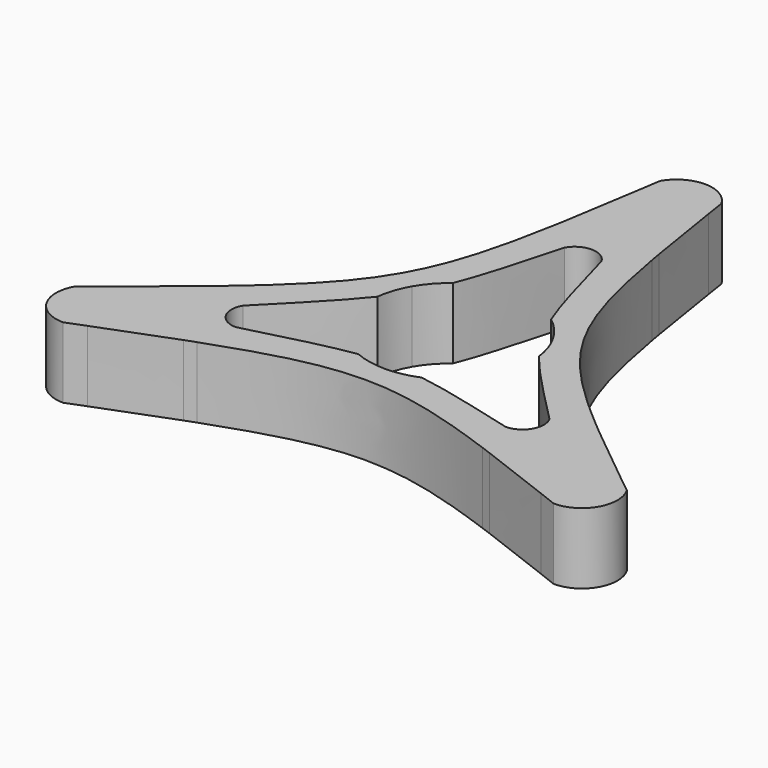
from build123d import *

# Parameters (mm, degrees)
F1_DEPTH = 10
F2_DEPTH = 10
F3_DEPTH = 10
F4_DEPTH = 10


with BuildPart() as f1:
    # F0 (on Top) → F1 (new body)
    with BuildSketch(Plane.XY):
        with BuildLine():
            ThreePointArc((-5.3923352161, 27.4758570552), (0, 28), (5.3923352161, 27.4758570552))
            add(Edge.make_bspline(
                [(4.3301270189, 32.5), (4.7068074274, 30.7100008253), (5.0582819436, 29.0397809794), (5.3923352161, 27.4758570552)],
                knots=[0, 0, 0, 0, 3.4770499246, 3.4770499246, 3.4770499246, 3.4770499246], degree=3))
            ThreePointArc((4.3301270189, 32.5), (0, 35), (-4.3301270189, 32.5))
            add(Edge.make_bspline(
                [(-4.3301270189, 32.5), (-4.7068074274, 30.7100008253), (-5.0582819436, 29.0397809794), (-5.3923352161, 27.4758570552)],
                knots=[0, 0, 0, 0, 3.4770499246, 3.4770499246, 3.4770499246, 3.4770499246], degree=3))
        make_face()
        with BuildLine():
            ThreePointArc((-2.5980762114, 23.5), (0, 25), (2.5980762114, 23.5))
            Line((2.5980762114, 23.5), (9.7150502143, 11.1730394308))
            add(Edge.make_bspline(
                [(5.3923352161, 27.4758570552), (6.9489657412, 20.1882418161), (8.1273115646, 15.2087351075), (9.7150502143, 11.1730394308)],
                knots=[3.4770499246, 3.4770499246, 3.4770499246, 3.4770499246, 19.6795017354, 19.6795017354, 19.6795017354, 19.6795017354], degree=3))
            ThreePointArc((5.3923352161, 27.4758570552), (0, 28), (-5.3923352161, 27.4758570552))
            add(Edge.make_bspline(
                [(-5.3923352161, 27.4758570552), (-6.9489657412, 20.1882418161), (-8.1273115646, 15.2087351075), (-9.7150502143, 11.1730394308)],
                knots=[3.4770499246, 3.4770499246, 3.4770499246, 3.4770499246, 19.6795017354, 19.6795017354, 19.6795017354, 19.6795017354], degree=3))
            Line((-9.7150502143, 11.1730394308), (-2.5980762114, 23.5))
        make_face()
        with BuildLine():
            ThreePointArc((9.9592921435, 5.75), (10.9017710782, 3.6607905372), (11.4112240224, 1.4261719077))
            add(Edge.make_bspline(
                [(11.4112240224, 1.4261719077), (13.6804233053, -1.4471931364), (16.8253695293, -4.6247303472), (21.6506350946, -9.5)],
                knots=[24.835637462, 24.835637462, 24.835637462, 24.835637462, 38.1051177665, 38.1051177665, 38.1051177665, 38.1051177665], degree=3))
            Line((21.6506350946, -9.5), (14.5336610917, 2.8269605692))
            add(Edge.make_bspline(
                [(9.7150502143, 11.1730394308), (10.9500182007, 8.0340121325), (12.4326677015, 5.4659878675), (14.5336610917, 2.8269605692)],
                knots=[19.6795017354, 19.6795017354, 19.6795017354, 19.6795017354, 32.2820224917, 32.2820224917, 32.2820224917, 32.2820224917], degree=3))
            Line((9.7150502143, 11.1730394308), (2.5980762114, 23.5))
            add(Edge.make_bspline(
                [(2.5980762114, 23.5), (4.4075507983, 16.8835626141), (5.5869056324, 12.5711906851), (6.9407131134, 9.1693239378)],
                knots=[0, 0, 0, 0, 13.2694803045, 13.2694803045, 13.2694803045, 13.2694803045], degree=3))
            ThreePointArc((6.9407131134, 9.1693239378), (8.6212231423, 7.6108154314), (9.9592921435, 5.75))
        make_face()
        with BuildLine():
            add(Edge.make_bspline(
                [(26.4909578086, -9.0680292447), (27.6783290203, -10.1392898271), (28.9490445787, -11.2787856098), (30.3108891325, -12.5)],
                knots=[48.4844743025, 48.4844743025, 48.4844743025, 48.4844743025, 51.9615242271, 51.9615242271, 51.9615242271, 51.9615242271], degree=3))
            ThreePointArc((26.4909578086, -9.0680292447), (24.248711306, -14), (21.0986225925, -18.4078278104))
            add(Edge.make_bspline(
                [(21.0986225925, -18.4078278104), (22.6200470767, -18.9004911523), (24.2422371512, -19.4312152155), (25.9807621135, -20)],
                knots=[48.4844743025, 48.4844743025, 48.4844743025, 48.4844743025, 51.9615242271, 51.9615242271, 51.9615242271, 51.9615242271], degree=3))
            ThreePointArc((25.9807621135, -20), (30.3108891325, -17.5), (30.3108891325, -12.5))
        make_face()
        with BuildLine():
            Line((14.5336610917, 2.8269605692), (21.6506350946, -9.5))
            ThreePointArc((21.6506350946, -9.5), (21.6506350946, -12.5), (19.0525588833, -14))
            Line((19.0525588833, -14), (4.8186108774, -14))
            add(Edge.make_bspline(
                [(4.8186108774, -14), (9.1074951803, -14.6428258332), (14.0090473999, -16.11210177), (21.0986225925, -18.4078278104)],
                knots=[32.2820224917, 32.2820224917, 32.2820224917, 32.2820224917, 48.4844743025, 48.4844743025, 48.4844743025, 48.4844743025], degree=3))
            ThreePointArc((21.0986225925, -18.4078278104), (24.248711306, -14), (26.4909578086, -9.0680292447))
            add(Edge.make_bspline(
                [(14.5336610917, 2.8269605692), (17.2348067449, -0.5659092743), (20.9580131411, -4.0761400461), (26.4909578086, -9.0680292447)],
                knots=[32.2820224917, 32.2820224917, 32.2820224917, 32.2820224917, 48.4844743025, 48.4844743025, 48.4844743025, 48.4844743025], degree=3))
        make_face()
        with BuildLine():
            add(Edge.make_bspline(
                [(4.470510909, -10.5954958455), (8.0935176729, -11.1239975487), (12.417818731, -12.2588322669), (19.0525588833, -14)],
                knots=[24.835637462, 24.835637462, 24.835637462, 24.835637462, 38.1051177665, 38.1051177665, 38.1051177665, 38.1051177665], degree=3))
            ThreePointArc((4.470510909, -10.5954958455), (2.2805479359, -11.2716059686), (0, -11.5))
            ThreePointArc((0, -11.5), (-2.2805479359, -11.2716059686), (-4.470510909, -10.5954958455))
            add(Edge.make_bspline(
                [(-19.0525588833, -14), (-12.417818731, -12.2588322669), (-8.0935176729, -11.1239975487), (-4.470510909, -10.5954958455)],
                knots=[0, 0, 0, 0, 13.2694803045, 13.2694803045, 13.2694803045, 13.2694803045], degree=3))
            Line((-19.0525588833, -14), (-4.8186108774, -14))
            add(Edge.make_bspline(
                [(-4.8186108774, -14), (-1.4826495007, -13.5), (1.4826495007, -13.5), (4.8186108774, -14)],
                knots=[19.6795017354, 19.6795017354, 19.6795017354, 19.6795017354, 32.2820224917, 32.2820224917, 32.2820224917, 32.2820224917], degree=3))
            Line((4.8186108774, -14), (19.0525588833, -14))
        make_face()
        with BuildLine():
            Line((-4.8186108774, -14), (-19.0525588833, -14))
            ThreePointArc((-19.0525588833, -14), (-21.6506350946, -12.5), (-21.6506350946, -9.5))
            Line((-21.6506350946, -9.5), (-14.5336610917, 2.8269605692))
            add(Edge.make_bspline(
                [(-14.5336610917, 2.8269605692), (-17.2348067449, -0.5659092743), (-20.9580131411, -4.0761400461), (-26.4909578086, -9.0680292447)],
                knots=[32.2820224917, 32.2820224917, 32.2820224917, 32.2820224917, 48.4844743025, 48.4844743025, 48.4844743025, 48.4844743025], degree=3))
            ThreePointArc((-26.4909578086, -9.0680292447), (-24.248711306, -14), (-21.0986225925, -18.4078278104))
            add(Edge.make_bspline(
                [(-21.0986225925, -18.4078278104), (-14.0090473999, -16.11210177), (-9.1074951803, -14.6428258332), (-4.8186108774, -14)],
                knots=[3.4770499246, 3.4770499246, 3.4770499246, 3.4770499246, 19.6795017354, 19.6795017354, 19.6795017354, 19.6795017354], degree=3))
        make_face()
        with BuildLine():
            add(Edge.make_bspline(
                [(-25.9807621135, -20), (-24.2422371512, -19.4312152155), (-22.6200470767, -18.9004911523), (-21.0986225925, -18.4078278104)],
                knots=[0, 0, 0, 0, 3.4770499246, 3.4770499246, 3.4770499246, 3.4770499246], degree=3))
            ThreePointArc((-21.0986225925, -18.4078278104), (-24.248711306, -14), (-26.4909578086, -9.0680292447))
            add(Edge.make_bspline(
                [(-26.4909578086, -9.0680292447), (-27.6783290203, -10.1392898271), (-28.9490445787, -11.2787856098), (-30.3108891325, -12.5)],
                knots=[48.4844743025, 48.4844743025, 48.4844743025, 48.4844743025, 51.9615242271, 51.9615242271, 51.9615242271, 51.9615242271], degree=3))
            ThreePointArc((-30.3108891325, -12.5), (-30.3108891325, -17.5), (-25.9807621135, -20))
        make_face()
        with BuildLine():
            ThreePointArc((-9.9592921435, 5.75), (-8.6212231423, 7.6108154314), (-6.9407131134, 9.1693239378))
            add(Edge.make_bspline(
                [(-2.5980762114, 23.5), (-4.4075507983, 16.8835626141), (-5.5869056324, 12.5711906851), (-6.9407131134, 9.1693239378)],
                knots=[0, 0, 0, 0, 13.2694803045, 13.2694803045, 13.2694803045, 13.2694803045], degree=3))
            Line((-2.5980762114, 23.5), (-9.7150502143, 11.1730394308))
            add(Edge.make_bspline(
                [(-9.7150502143, 11.1730394308), (-10.9500182007, 8.0340121325), (-12.4326677015, 5.4659878675), (-14.5336610917, 2.8269605692)],
                knots=[19.6795017354, 19.6795017354, 19.6795017354, 19.6795017354, 32.2820224917, 32.2820224917, 32.2820224917, 32.2820224917], degree=3))
            Line((-14.5336610917, 2.8269605692), (-21.6506350946, -9.5))
            add(Edge.make_bspline(
                [(-11.4112240224, 1.4261719077), (-13.6804233053, -1.4471931364), (-16.8253695293, -4.6247303472), (-21.6506350946, -9.5)],
                knots=[24.835637462, 24.835637462, 24.835637462, 24.835637462, 38.1051177665, 38.1051177665, 38.1051177665, 38.1051177665], degree=3))
            ThreePointArc((-11.4112240224, 1.4261719077), (-10.9017710782, 3.6607905372), (-9.9592921435, 5.75))
        make_face()
    extrude(amount=F1_DEPTH)

    # F0 (on Top) → F2 (join)
    with BuildSketch(Plane.XY):
        with BuildLine():
            ThreePointArc((-5.3923352161, 27.4758570552), (0, 28), (5.3923352161, 27.4758570552))
            add(Edge.make_bspline(
                [(4.3301270189, 32.5), (4.7068074274, 30.7100008253), (5.0582819436, 29.0397809794), (5.3923352161, 27.4758570552)],
                knots=[0, 0, 0, 0, 3.4770499246, 3.4770499246, 3.4770499246, 3.4770499246], degree=3))
            ThreePointArc((4.3301270189, 32.5), (0, 35), (-4.3301270189, 32.5))
            add(Edge.make_bspline(
                [(-4.3301270189, 32.5), (-4.7068074274, 30.7100008253), (-5.0582819436, 29.0397809794), (-5.3923352161, 27.4758570552)],
                knots=[0, 0, 0, 0, 3.4770499246, 3.4770499246, 3.4770499246, 3.4770499246], degree=3))
        make_face()
        with BuildLine():
            ThreePointArc((-2.5980762114, 23.5), (0, 25), (2.5980762114, 23.5))
            Line((2.5980762114, 23.5), (9.7150502143, 11.1730394308))
            add(Edge.make_bspline(
                [(5.3923352161, 27.4758570552), (6.9489657412, 20.1882418161), (8.1273115646, 15.2087351075), (9.7150502143, 11.1730394308)],
                knots=[3.4770499246, 3.4770499246, 3.4770499246, 3.4770499246, 19.6795017354, 19.6795017354, 19.6795017354, 19.6795017354], degree=3))
            ThreePointArc((5.3923352161, 27.4758570552), (0, 28), (-5.3923352161, 27.4758570552))
            add(Edge.make_bspline(
                [(-5.3923352161, 27.4758570552), (-6.9489657412, 20.1882418161), (-8.1273115646, 15.2087351075), (-9.7150502143, 11.1730394308)],
                knots=[3.4770499246, 3.4770499246, 3.4770499246, 3.4770499246, 19.6795017354, 19.6795017354, 19.6795017354, 19.6795017354], degree=3))
            Line((-9.7150502143, 11.1730394308), (-2.5980762114, 23.5))
        make_face()
        with BuildLine():
            ThreePointArc((-9.9592921435, 5.75), (-8.6212231423, 7.6108154314), (-6.9407131134, 9.1693239378))
            add(Edge.make_bspline(
                [(-2.5980762114, 23.5), (-4.4075507983, 16.8835626141), (-5.5869056324, 12.5711906851), (-6.9407131134, 9.1693239378)],
                knots=[0, 0, 0, 0, 13.2694803045, 13.2694803045, 13.2694803045, 13.2694803045], degree=3))
            Line((-2.5980762114, 23.5), (-9.7150502143, 11.1730394308))
            add(Edge.make_bspline(
                [(-9.7150502143, 11.1730394308), (-10.9500182007, 8.0340121325), (-12.4326677015, 5.4659878675), (-14.5336610917, 2.8269605692)],
                knots=[19.6795017354, 19.6795017354, 19.6795017354, 19.6795017354, 32.2820224917, 32.2820224917, 32.2820224917, 32.2820224917], degree=3))
            Line((-14.5336610917, 2.8269605692), (-21.6506350946, -9.5))
            add(Edge.make_bspline(
                [(-11.4112240224, 1.4261719077), (-13.6804233053, -1.4471931364), (-16.8253695293, -4.6247303472), (-21.6506350946, -9.5)],
                knots=[24.835637462, 24.835637462, 24.835637462, 24.835637462, 38.1051177665, 38.1051177665, 38.1051177665, 38.1051177665], degree=3))
            ThreePointArc((-11.4112240224, 1.4261719077), (-10.9017710782, 3.6607905372), (-9.9592921435, 5.75))
        make_face()
        with BuildLine():
            ThreePointArc((9.9592921435, 5.75), (10.9017710782, 3.6607905372), (11.4112240224, 1.4261719077))
            add(Edge.make_bspline(
                [(11.4112240224, 1.4261719077), (13.6804233053, -1.4471931364), (16.8253695293, -4.6247303472), (21.6506350946, -9.5)],
                knots=[24.835637462, 24.835637462, 24.835637462, 24.835637462, 38.1051177665, 38.1051177665, 38.1051177665, 38.1051177665], degree=3))
            Line((21.6506350946, -9.5), (14.5336610917, 2.8269605692))
            add(Edge.make_bspline(
                [(9.7150502143, 11.1730394308), (10.9500182007, 8.0340121325), (12.4326677015, 5.4659878675), (14.5336610917, 2.8269605692)],
                knots=[19.6795017354, 19.6795017354, 19.6795017354, 19.6795017354, 32.2820224917, 32.2820224917, 32.2820224917, 32.2820224917], degree=3))
            Line((9.7150502143, 11.1730394308), (2.5980762114, 23.5))
            add(Edge.make_bspline(
                [(2.5980762114, 23.5), (4.4075507983, 16.8835626141), (5.5869056324, 12.5711906851), (6.9407131134, 9.1693239378)],
                knots=[0, 0, 0, 0, 13.2694803045, 13.2694803045, 13.2694803045, 13.2694803045], degree=3))
            ThreePointArc((6.9407131134, 9.1693239378), (8.6212231423, 7.6108154314), (9.9592921435, 5.75))
        make_face()
        with BuildLine():
            Line((14.5336610917, 2.8269605692), (21.6506350946, -9.5))
            ThreePointArc((21.6506350946, -9.5), (21.6506350946, -12.5), (19.0525588833, -14))
            Line((19.0525588833, -14), (4.8186108774, -14))
            add(Edge.make_bspline(
                [(4.8186108774, -14), (9.1074951803, -14.6428258332), (14.0090473999, -16.11210177), (21.0986225925, -18.4078278104)],
                knots=[32.2820224917, 32.2820224917, 32.2820224917, 32.2820224917, 48.4844743025, 48.4844743025, 48.4844743025, 48.4844743025], degree=3))
            ThreePointArc((21.0986225925, -18.4078278104), (24.248711306, -14), (26.4909578086, -9.0680292447))
            add(Edge.make_bspline(
                [(14.5336610917, 2.8269605692), (17.2348067449, -0.5659092743), (20.9580131411, -4.0761400461), (26.4909578086, -9.0680292447)],
                knots=[32.2820224917, 32.2820224917, 32.2820224917, 32.2820224917, 48.4844743025, 48.4844743025, 48.4844743025, 48.4844743025], degree=3))
        make_face()
        with BuildLine():
            add(Edge.make_bspline(
                [(26.4909578086, -9.0680292447), (27.6783290203, -10.1392898271), (28.9490445787, -11.2787856098), (30.3108891325, -12.5)],
                knots=[48.4844743025, 48.4844743025, 48.4844743025, 48.4844743025, 51.9615242271, 51.9615242271, 51.9615242271, 51.9615242271], degree=3))
            ThreePointArc((26.4909578086, -9.0680292447), (24.248711306, -14), (21.0986225925, -18.4078278104))
            add(Edge.make_bspline(
                [(21.0986225925, -18.4078278104), (22.6200470767, -18.9004911523), (24.2422371512, -19.4312152155), (25.9807621135, -20)],
                knots=[48.4844743025, 48.4844743025, 48.4844743025, 48.4844743025, 51.9615242271, 51.9615242271, 51.9615242271, 51.9615242271], degree=3))
            ThreePointArc((25.9807621135, -20), (30.3108891325, -17.5), (30.3108891325, -12.5))
        make_face()
        with BuildLine():
            add(Edge.make_bspline(
                [(4.470510909, -10.5954958455), (8.0935176729, -11.1239975487), (12.417818731, -12.2588322669), (19.0525588833, -14)],
                knots=[24.835637462, 24.835637462, 24.835637462, 24.835637462, 38.1051177665, 38.1051177665, 38.1051177665, 38.1051177665], degree=3))
            ThreePointArc((4.470510909, -10.5954958455), (2.2805479359, -11.2716059686), (0, -11.5))
            ThreePointArc((0, -11.5), (-2.2805479359, -11.2716059686), (-4.470510909, -10.5954958455))
            add(Edge.make_bspline(
                [(-19.0525588833, -14), (-12.417818731, -12.2588322669), (-8.0935176729, -11.1239975487), (-4.470510909, -10.5954958455)],
                knots=[0, 0, 0, 0, 13.2694803045, 13.2694803045, 13.2694803045, 13.2694803045], degree=3))
            Line((-19.0525588833, -14), (-4.8186108774, -14))
            add(Edge.make_bspline(
                [(-4.8186108774, -14), (-1.4826495007, -13.5), (1.4826495007, -13.5), (4.8186108774, -14)],
                knots=[19.6795017354, 19.6795017354, 19.6795017354, 19.6795017354, 32.2820224917, 32.2820224917, 32.2820224917, 32.2820224917], degree=3))
            Line((4.8186108774, -14), (19.0525588833, -14))
        make_face()
        with BuildLine():
            Line((-4.8186108774, -14), (-19.0525588833, -14))
            ThreePointArc((-19.0525588833, -14), (-21.6506350946, -12.5), (-21.6506350946, -9.5))
            Line((-21.6506350946, -9.5), (-14.5336610917, 2.8269605692))
            add(Edge.make_bspline(
                [(-14.5336610917, 2.8269605692), (-17.2348067449, -0.5659092743), (-20.9580131411, -4.0761400461), (-26.4909578086, -9.0680292447)],
                knots=[32.2820224917, 32.2820224917, 32.2820224917, 32.2820224917, 48.4844743025, 48.4844743025, 48.4844743025, 48.4844743025], degree=3))
            ThreePointArc((-26.4909578086, -9.0680292447), (-24.248711306, -14), (-21.0986225925, -18.4078278104))
            add(Edge.make_bspline(
                [(-21.0986225925, -18.4078278104), (-14.0090473999, -16.11210177), (-9.1074951803, -14.6428258332), (-4.8186108774, -14)],
                knots=[3.4770499246, 3.4770499246, 3.4770499246, 3.4770499246, 19.6795017354, 19.6795017354, 19.6795017354, 19.6795017354], degree=3))
        make_face()
        with BuildLine():
            add(Edge.make_bspline(
                [(-25.9807621135, -20), (-24.2422371512, -19.4312152155), (-22.6200470767, -18.9004911523), (-21.0986225925, -18.4078278104)],
                knots=[0, 0, 0, 0, 3.4770499246, 3.4770499246, 3.4770499246, 3.4770499246], degree=3))
            ThreePointArc((-21.0986225925, -18.4078278104), (-24.248711306, -14), (-26.4909578086, -9.0680292447))
            add(Edge.make_bspline(
                [(-26.4909578086, -9.0680292447), (-27.6783290203, -10.1392898271), (-28.9490445787, -11.2787856098), (-30.3108891325, -12.5)],
                knots=[48.4844743025, 48.4844743025, 48.4844743025, 48.4844743025, 51.9615242271, 51.9615242271, 51.9615242271, 51.9615242271], degree=3))
            ThreePointArc((-30.3108891325, -12.5), (-30.3108891325, -17.5), (-25.9807621135, -20))
        make_face()
    extrude(amount=F2_DEPTH)

    # F0 (on Top) → F3 (join)
    with BuildSketch(Plane.XY):
        with BuildLine():
            add(Edge.make_bspline(
                [(26.4909578086, -9.0680292447), (27.6783290203, -10.1392898271), (28.9490445787, -11.2787856098), (30.3108891325, -12.5)],
                knots=[48.4844743025, 48.4844743025, 48.4844743025, 48.4844743025, 51.9615242271, 51.9615242271, 51.9615242271, 51.9615242271], degree=3))
            ThreePointArc((26.4909578086, -9.0680292447), (24.248711306, -14), (21.0986225925, -18.4078278104))
            add(Edge.make_bspline(
                [(21.0986225925, -18.4078278104), (22.6200470767, -18.9004911523), (24.2422371512, -19.4312152155), (25.9807621135, -20)],
                knots=[48.4844743025, 48.4844743025, 48.4844743025, 48.4844743025, 51.9615242271, 51.9615242271, 51.9615242271, 51.9615242271], degree=3))
            ThreePointArc((25.9807621135, -20), (30.3108891325, -17.5), (30.3108891325, -12.5))
        make_face()
        with BuildLine():
            Line((14.5336610917, 2.8269605692), (21.6506350946, -9.5))
            ThreePointArc((21.6506350946, -9.5), (21.6506350946, -12.5), (19.0525588833, -14))
            Line((19.0525588833, -14), (4.8186108774, -14))
            add(Edge.make_bspline(
                [(4.8186108774, -14), (9.1074951803, -14.6428258332), (14.0090473999, -16.11210177), (21.0986225925, -18.4078278104)],
                knots=[32.2820224917, 32.2820224917, 32.2820224917, 32.2820224917, 48.4844743025, 48.4844743025, 48.4844743025, 48.4844743025], degree=3))
            ThreePointArc((21.0986225925, -18.4078278104), (24.248711306, -14), (26.4909578086, -9.0680292447))
            add(Edge.make_bspline(
                [(14.5336610917, 2.8269605692), (17.2348067449, -0.5659092743), (20.9580131411, -4.0761400461), (26.4909578086, -9.0680292447)],
                knots=[32.2820224917, 32.2820224917, 32.2820224917, 32.2820224917, 48.4844743025, 48.4844743025, 48.4844743025, 48.4844743025], degree=3))
        make_face()
        with BuildLine():
            ThreePointArc((-5.3923352161, 27.4758570552), (0, 28), (5.3923352161, 27.4758570552))
            add(Edge.make_bspline(
                [(4.3301270189, 32.5), (4.7068074274, 30.7100008253), (5.0582819436, 29.0397809794), (5.3923352161, 27.4758570552)],
                knots=[0, 0, 0, 0, 3.4770499246, 3.4770499246, 3.4770499246, 3.4770499246], degree=3))
            ThreePointArc((4.3301270189, 32.5), (0, 35), (-4.3301270189, 32.5))
            add(Edge.make_bspline(
                [(-4.3301270189, 32.5), (-4.7068074274, 30.7100008253), (-5.0582819436, 29.0397809794), (-5.3923352161, 27.4758570552)],
                knots=[0, 0, 0, 0, 3.4770499246, 3.4770499246, 3.4770499246, 3.4770499246], degree=3))
        make_face()
        with BuildLine():
            add(Edge.make_bspline(
                [(-25.9807621135, -20), (-24.2422371512, -19.4312152155), (-22.6200470767, -18.9004911523), (-21.0986225925, -18.4078278104)],
                knots=[0, 0, 0, 0, 3.4770499246, 3.4770499246, 3.4770499246, 3.4770499246], degree=3))
            ThreePointArc((-21.0986225925, -18.4078278104), (-24.248711306, -14), (-26.4909578086, -9.0680292447))
            add(Edge.make_bspline(
                [(-26.4909578086, -9.0680292447), (-27.6783290203, -10.1392898271), (-28.9490445787, -11.2787856098), (-30.3108891325, -12.5)],
                knots=[48.4844743025, 48.4844743025, 48.4844743025, 48.4844743025, 51.9615242271, 51.9615242271, 51.9615242271, 51.9615242271], degree=3))
            ThreePointArc((-30.3108891325, -12.5), (-30.3108891325, -17.5), (-25.9807621135, -20))
        make_face()
        with BuildLine():
            Line((-4.8186108774, -14), (-19.0525588833, -14))
            ThreePointArc((-19.0525588833, -14), (-21.6506350946, -12.5), (-21.6506350946, -9.5))
            Line((-21.6506350946, -9.5), (-14.5336610917, 2.8269605692))
            add(Edge.make_bspline(
                [(-14.5336610917, 2.8269605692), (-17.2348067449, -0.5659092743), (-20.9580131411, -4.0761400461), (-26.4909578086, -9.0680292447)],
                knots=[32.2820224917, 32.2820224917, 32.2820224917, 32.2820224917, 48.4844743025, 48.4844743025, 48.4844743025, 48.4844743025], degree=3))
            ThreePointArc((-26.4909578086, -9.0680292447), (-24.248711306, -14), (-21.0986225925, -18.4078278104))
            add(Edge.make_bspline(
                [(-21.0986225925, -18.4078278104), (-14.0090473999, -16.11210177), (-9.1074951803, -14.6428258332), (-4.8186108774, -14)],
                knots=[3.4770499246, 3.4770499246, 3.4770499246, 3.4770499246, 19.6795017354, 19.6795017354, 19.6795017354, 19.6795017354], degree=3))
        make_face()
        with BuildLine():
            ThreePointArc((-2.5980762114, 23.5), (0, 25), (2.5980762114, 23.5))
            Line((2.5980762114, 23.5), (9.7150502143, 11.1730394308))
            add(Edge.make_bspline(
                [(5.3923352161, 27.4758570552), (6.9489657412, 20.1882418161), (8.1273115646, 15.2087351075), (9.7150502143, 11.1730394308)],
                knots=[3.4770499246, 3.4770499246, 3.4770499246, 3.4770499246, 19.6795017354, 19.6795017354, 19.6795017354, 19.6795017354], degree=3))
            ThreePointArc((5.3923352161, 27.4758570552), (0, 28), (-5.3923352161, 27.4758570552))
            add(Edge.make_bspline(
                [(-5.3923352161, 27.4758570552), (-6.9489657412, 20.1882418161), (-8.1273115646, 15.2087351075), (-9.7150502143, 11.1730394308)],
                knots=[3.4770499246, 3.4770499246, 3.4770499246, 3.4770499246, 19.6795017354, 19.6795017354, 19.6795017354, 19.6795017354], degree=3))
            Line((-9.7150502143, 11.1730394308), (-2.5980762114, 23.5))
        make_face()
        with BuildLine():
            ThreePointArc((9.9592921435, 5.75), (10.9017710782, 3.6607905372), (11.4112240224, 1.4261719077))
            add(Edge.make_bspline(
                [(11.4112240224, 1.4261719077), (13.6804233053, -1.4471931364), (16.8253695293, -4.6247303472), (21.6506350946, -9.5)],
                knots=[24.835637462, 24.835637462, 24.835637462, 24.835637462, 38.1051177665, 38.1051177665, 38.1051177665, 38.1051177665], degree=3))
            Line((21.6506350946, -9.5), (14.5336610917, 2.8269605692))
            add(Edge.make_bspline(
                [(9.7150502143, 11.1730394308), (10.9500182007, 8.0340121325), (12.4326677015, 5.4659878675), (14.5336610917, 2.8269605692)],
                knots=[19.6795017354, 19.6795017354, 19.6795017354, 19.6795017354, 32.2820224917, 32.2820224917, 32.2820224917, 32.2820224917], degree=3))
            Line((9.7150502143, 11.1730394308), (2.5980762114, 23.5))
            add(Edge.make_bspline(
                [(2.5980762114, 23.5), (4.4075507983, 16.8835626141), (5.5869056324, 12.5711906851), (6.9407131134, 9.1693239378)],
                knots=[0, 0, 0, 0, 13.2694803045, 13.2694803045, 13.2694803045, 13.2694803045], degree=3))
            ThreePointArc((6.9407131134, 9.1693239378), (8.6212231423, 7.6108154314), (9.9592921435, 5.75))
        make_face()
        with BuildLine():
            ThreePointArc((-9.9592921435, 5.75), (-8.6212231423, 7.6108154314), (-6.9407131134, 9.1693239378))
            add(Edge.make_bspline(
                [(-2.5980762114, 23.5), (-4.4075507983, 16.8835626141), (-5.5869056324, 12.5711906851), (-6.9407131134, 9.1693239378)],
                knots=[0, 0, 0, 0, 13.2694803045, 13.2694803045, 13.2694803045, 13.2694803045], degree=3))
            Line((-2.5980762114, 23.5), (-9.7150502143, 11.1730394308))
            add(Edge.make_bspline(
                [(-9.7150502143, 11.1730394308), (-10.9500182007, 8.0340121325), (-12.4326677015, 5.4659878675), (-14.5336610917, 2.8269605692)],
                knots=[19.6795017354, 19.6795017354, 19.6795017354, 19.6795017354, 32.2820224917, 32.2820224917, 32.2820224917, 32.2820224917], degree=3))
            Line((-14.5336610917, 2.8269605692), (-21.6506350946, -9.5))
            add(Edge.make_bspline(
                [(-11.4112240224, 1.4261719077), (-13.6804233053, -1.4471931364), (-16.8253695293, -4.6247303472), (-21.6506350946, -9.5)],
                knots=[24.835637462, 24.835637462, 24.835637462, 24.835637462, 38.1051177665, 38.1051177665, 38.1051177665, 38.1051177665], degree=3))
            ThreePointArc((-11.4112240224, 1.4261719077), (-10.9017710782, 3.6607905372), (-9.9592921435, 5.75))
        make_face()
        with BuildLine():
            add(Edge.make_bspline(
                [(4.470510909, -10.5954958455), (8.0935176729, -11.1239975487), (12.417818731, -12.2588322669), (19.0525588833, -14)],
                knots=[24.835637462, 24.835637462, 24.835637462, 24.835637462, 38.1051177665, 38.1051177665, 38.1051177665, 38.1051177665], degree=3))
            ThreePointArc((4.470510909, -10.5954958455), (2.2805479359, -11.2716059686), (0, -11.5))
            ThreePointArc((0, -11.5), (-2.2805479359, -11.2716059686), (-4.470510909, -10.5954958455))
            add(Edge.make_bspline(
                [(-19.0525588833, -14), (-12.417818731, -12.2588322669), (-8.0935176729, -11.1239975487), (-4.470510909, -10.5954958455)],
                knots=[0, 0, 0, 0, 13.2694803045, 13.2694803045, 13.2694803045, 13.2694803045], degree=3))
            Line((-19.0525588833, -14), (-4.8186108774, -14))
            add(Edge.make_bspline(
                [(-4.8186108774, -14), (-1.4826495007, -13.5), (1.4826495007, -13.5), (4.8186108774, -14)],
                knots=[19.6795017354, 19.6795017354, 19.6795017354, 19.6795017354, 32.2820224917, 32.2820224917, 32.2820224917, 32.2820224917], degree=3))
            Line((4.8186108774, -14), (19.0525588833, -14))
        make_face()
    extrude(amount=F3_DEPTH)

    # F0 (on Top) → F4 (join)
    with BuildSketch(Plane.XY):
        with BuildLine():
            ThreePointArc((-4.3301270189, 32.5), (0, 35), (4.3301270189, 32.5))
            Line((4.3301270189, 32.5), (6.5190253328, 28.7087169077))
            add(Edge.make_bspline(
                [(4.7569877375, 39.7161310762), (5.3914707232, 35.5871140981), (5.9596711042, 31.9511369931), (6.5190253328, 28.7087169077)],
                knots=[1.7952706995, 1.7952706995, 1.7952706995, 1.7952706995, 9.9953794705, 9.9953794705, 9.9953794705, 9.9953794705], degree=3))
            ThreePointArc((4.7569877375, 39.7161310762), (0, 40), (-4.7569877375, 39.7161310762))
            add(Edge.make_bspline(
                [(-4.7569877375, 39.7161310762), (-5.3914707232, 35.5871140981), (-5.9596711042, 31.9511369931), (-6.5190253328, 28.7087169077)],
                knots=[1.7952706995, 1.7952706995, 1.7952706995, 1.7952706995, 9.9953794705, 9.9953794705, 9.9953794705, 9.9953794705], degree=3))
            Line((-6.5190253328, 28.7087169077), (-4.3301270189, 32.5))
        make_face()
        with BuildLine():
            ThreePointArc((-4.7569877375, 39.7161310762), (0, 40), (4.7569877375, 39.7161310762))
            add(Edge.make_bspline(
                [(4.3301270189, 42.5), (4.4759927633, 41.5477156051), (4.6180787614, 40.6201072802), (4.7569877375, 39.7161310762)],
                knots=[0, 0, 0, 0, 1.7952706995, 1.7952706995, 1.7952706995, 1.7952706995], degree=3))
            ThreePointArc((4.3301270189, 42.5), (0, 45), (-4.3301270189, 42.5))
            add(Edge.make_bspline(
                [(-4.3301270189, 42.5), (-4.4759927633, 41.5477156051), (-4.6180787614, 40.6201072802), (-4.7569877375, 39.7161310762)],
                knots=[0, 0, 0, 0, 1.7952706995, 1.7952706995, 1.7952706995, 1.7952706995], degree=3))
        make_face()
        with BuildLine():
            ThreePointArc((-2.5980762114, 23.5), (0, 25), (2.5980762114, 23.5))
            Line((2.5980762114, 23.5), (9.7150502143, 11.1730394308))
            add(Edge.make_bspline(
                [(5.3923352161, 27.4758570552), (6.9489657412, 20.1882418161), (8.1273115646, 15.2087351075), (9.7150502143, 11.1730394308)],
                knots=[3.4770499246, 3.4770499246, 3.4770499246, 3.4770499246, 19.6795017354, 19.6795017354, 19.6795017354, 19.6795017354], degree=3))
            ThreePointArc((5.3923352161, 27.4758570552), (0, 28), (-5.3923352161, 27.4758570552))
            add(Edge.make_bspline(
                [(-5.3923352161, 27.4758570552), (-6.9489657412, 20.1882418161), (-8.1273115646, 15.2087351075), (-9.7150502143, 11.1730394308)],
                knots=[3.4770499246, 3.4770499246, 3.4770499246, 3.4770499246, 19.6795017354, 19.6795017354, 19.6795017354, 19.6795017354], degree=3))
            Line((-9.7150502143, 11.1730394308), (-2.5980762114, 23.5))
        make_face()
        with BuildLine():
            ThreePointArc((-5.3923352161, 27.4758570552), (0, 28), (5.3923352161, 27.4758570552))
            add(Edge.make_bspline(
                [(4.3301270189, 32.5), (4.7068074274, 30.7100008253), (5.0582819436, 29.0397809794), (5.3923352161, 27.4758570552)],
                knots=[0, 0, 0, 0, 3.4770499246, 3.4770499246, 3.4770499246, 3.4770499246], degree=3))
            ThreePointArc((4.3301270189, 32.5), (0, 35), (-4.3301270189, 32.5))
            add(Edge.make_bspline(
                [(-4.3301270189, 32.5), (-4.7068074274, 30.7100008253), (-5.0582819436, 29.0397809794), (-5.3923352161, 27.4758570552)],
                knots=[0, 0, 0, 0, 3.4770499246, 3.4770499246, 3.4770499246, 3.4770499246], degree=3))
        make_face()
        with BuildLine():
            add(Edge.make_bspline(
                [(4.3301270189, 32.5), (4.7068074274, 30.7100008253), (5.0582819436, 29.0397809794), (5.3923352161, 27.4758570552)],
                knots=[0, 0, 0, 0, 3.4770499246, 3.4770499246, 3.4770499246, 3.4770499246], degree=3))
            ThreePointArc((5.3923352161, 27.4758570552), (6.0933076433, 27.3289517173), (6.7902934345, 27.164166011))
            add(Edge.make_bspline(
                [(6.5190253328, 28.7087169077), (6.6095986921, 28.1836884652), (6.6999401083, 27.6689789549), (6.7902934345, 27.164166011)],
                knots=[9.9953794705, 9.9953794705, 9.9953794705, 9.9953794705, 11.3231809964, 11.3231809964, 11.3231809964, 11.3231809964], degree=3))
            Line((6.5190253328, 28.7087169077), (4.3301270189, 32.5))
        make_face()
        with BuildLine():
            ThreePointArc((-6.7902934345, 27.164166011), (-6.0933076433, 27.3289517173), (-5.3923352161, 27.4758570552))
            add(Edge.make_bspline(
                [(-4.3301270189, 32.5), (-4.7068074274, 30.7100008253), (-5.0582819436, 29.0397809794), (-5.3923352161, 27.4758570552)],
                knots=[0, 0, 0, 0, 3.4770499246, 3.4770499246, 3.4770499246, 3.4770499246], degree=3))
            Line((-4.3301270189, 32.5), (-6.5190253328, 28.7087169077))
            add(Edge.make_bspline(
                [(-6.5190253328, 28.7087169077), (-6.6095986921, 28.1836884652), (-6.6999401083, 27.6689789549), (-6.7902934345, 27.164166011)],
                knots=[9.9953794705, 9.9953794705, 9.9953794705, 9.9953794705, 11.3231809964, 11.3231809964, 11.3231809964, 11.3231809964], degree=3))
        make_face()
        with BuildLine():
            Line((-14.5336610917, 2.8269605692), (-9.7150502143, 11.1730394308))
            add(Edge.make_bspline(
                [(-5.3923352161, 27.4758570552), (-6.9489657412, 20.1882418161), (-8.1273115646, 15.2087351075), (-9.7150502143, 11.1730394308)],
                knots=[3.4770499246, 3.4770499246, 3.4770499246, 3.4770499246, 19.6795017354, 19.6795017354, 19.6795017354, 19.6795017354], degree=3))
            ThreePointArc((-5.3923352161, 27.4758570552), (-6.0933076433, 27.3289517173), (-6.7902934345, 27.164166011))
            add(Edge.make_bspline(
                [(-6.7902934345, 27.164166011), (-9.963725493, 9.4338881341), (-13.1518495271, 3.9118953262), (-26.9200045554, -7.7015163921)],
                knots=[11.3231809964, 11.3231809964, 11.3231809964, 11.3231809964, 57.9588513064, 57.9588513064, 57.9588513064, 57.9588513064], degree=3))
            ThreePointArc((-26.9200045554, -7.7015163921), (-26.7142202676, -8.3875166464), (-26.4909578086, -9.0680292447))
            add(Edge.make_bspline(
                [(-14.5336610917, 2.8269605692), (-17.2348067449, -0.5659092743), (-20.9580131411, -4.0761400461), (-26.4909578086, -9.0680292447)],
                knots=[32.2820224917, 32.2820224917, 32.2820224917, 32.2820224917, 48.4844743025, 48.4844743025, 48.4844743025, 48.4844743025], degree=3))
        make_face()
        with BuildLine():
            Line((9.7150502143, 11.1730394308), (14.5336610917, 2.8269605692))
            add(Edge.make_bspline(
                [(14.5336610917, 2.8269605692), (17.2348067449, -0.5659092743), (20.9580131411, -4.0761400461), (26.4909578086, -9.0680292447)],
                knots=[32.2820224917, 32.2820224917, 32.2820224917, 32.2820224917, 48.4844743025, 48.4844743025, 48.4844743025, 48.4844743025], degree=3))
            ThreePointArc((26.4909578086, -9.0680292447), (26.7142202676, -8.3875166464), (26.9200045554, -7.7015163921))
            add(Edge.make_bspline(
                [(6.7902934345, 27.164166011), (9.963725493, 9.4338881341), (13.1518495271, 3.9118953262), (26.9200045554, -7.7015163921)],
                knots=[11.3231809964, 11.3231809964, 11.3231809964, 11.3231809964, 57.9588513064, 57.9588513064, 57.9588513064, 57.9588513064], degree=3))
            ThreePointArc((6.7902934345, 27.164166011), (6.0933076433, 27.3289517173), (5.3923352161, 27.4758570552))
            add(Edge.make_bspline(
                [(5.3923352161, 27.4758570552), (6.9489657412, 20.1882418161), (8.1273115646, 15.2087351075), (9.7150502143, 11.1730394308)],
                knots=[3.4770499246, 3.4770499246, 3.4770499246, 3.4770499246, 19.6795017354, 19.6795017354, 19.6795017354, 19.6795017354], degree=3))
        make_face()
        with BuildLine():
            ThreePointArc((9.9592921435, 5.75), (10.9017710782, 3.6607905372), (11.4112240224, 1.4261719077))
            add(Edge.make_bspline(
                [(11.4112240224, 1.4261719077), (13.6804233053, -1.4471931364), (16.8253695293, -4.6247303472), (21.6506350946, -9.5)],
                knots=[24.835637462, 24.835637462, 24.835637462, 24.835637462, 38.1051177665, 38.1051177665, 38.1051177665, 38.1051177665], degree=3))
            Line((21.6506350946, -9.5), (14.5336610917, 2.8269605692))
            add(Edge.make_bspline(
                [(9.7150502143, 11.1730394308), (10.9500182007, 8.0340121325), (12.4326677015, 5.4659878675), (14.5336610917, 2.8269605692)],
                knots=[19.6795017354, 19.6795017354, 19.6795017354, 19.6795017354, 32.2820224917, 32.2820224917, 32.2820224917, 32.2820224917], degree=3))
            Line((9.7150502143, 11.1730394308), (2.5980762114, 23.5))
            add(Edge.make_bspline(
                [(2.5980762114, 23.5), (4.4075507983, 16.8835626141), (5.5869056324, 12.5711906851), (6.9407131134, 9.1693239378)],
                knots=[0, 0, 0, 0, 13.2694803045, 13.2694803045, 13.2694803045, 13.2694803045], degree=3))
            ThreePointArc((6.9407131134, 9.1693239378), (8.6212231423, 7.6108154314), (9.9592921435, 5.75))
        make_face()
        with BuildLine():
            add(Edge.make_bspline(
                [(9.7150502143, 11.1730394308), (10.9500182007, 8.0340121325), (12.4326677015, 5.4659878675), (14.5336610917, 2.8269605692)],
                knots=[19.6795017354, 19.6795017354, 19.6795017354, 19.6795017354, 32.2820224917, 32.2820224917, 32.2820224917, 32.2820224917], degree=3))
            Line((14.5336610917, 2.8269605692), (9.7150502143, 11.1730394308))
        make_face()
        with BuildLine():
            Line((14.5336610917, 2.8269605692), (21.6506350946, -9.5))
            ThreePointArc((21.6506350946, -9.5), (21.6506350946, -12.5), (19.0525588833, -14))
            Line((19.0525588833, -14), (4.8186108774, -14))
            add(Edge.make_bspline(
                [(4.8186108774, -14), (9.1074951803, -14.6428258332), (14.0090473999, -16.11210177), (21.0986225925, -18.4078278104)],
                knots=[32.2820224917, 32.2820224917, 32.2820224917, 32.2820224917, 48.4844743025, 48.4844743025, 48.4844743025, 48.4844743025], degree=3))
            ThreePointArc((21.0986225925, -18.4078278104), (24.248711306, -14), (26.4909578086, -9.0680292447))
            add(Edge.make_bspline(
                [(14.5336610917, 2.8269605692), (17.2348067449, -0.5659092743), (20.9580131411, -4.0761400461), (26.4909578086, -9.0680292447)],
                knots=[32.2820224917, 32.2820224917, 32.2820224917, 32.2820224917, 48.4844743025, 48.4844743025, 48.4844743025, 48.4844743025], degree=3))
        make_face()
        with BuildLine():
            ThreePointArc((26.9200045554, -7.7015163921), (26.7142202676, -8.3875166464), (26.4909578086, -9.0680292447))
            add(Edge.make_bspline(
                [(26.4909578086, -9.0680292447), (27.6783290203, -10.1392898271), (28.9490445787, -11.2787856098), (30.3108891325, -12.5)],
                knots=[48.4844743025, 48.4844743025, 48.4844743025, 48.4844743025, 51.9615242271, 51.9615242271, 51.9615242271, 51.9615242271], degree=3))
            Line((30.3108891325, -12.5), (28.1219908186, -8.7087169077))
            add(Edge.make_bspline(
                [(26.9200045554, -7.7015163921), (27.3120087259, -8.0321711398), (27.7125895292, -8.3677638564), (28.1219908186, -8.7087169077)],
                knots=[57.9588513064, 57.9588513064, 57.9588513064, 57.9588513064, 59.2866528323, 59.2866528323, 59.2866528323, 59.2866528323], degree=3))
        make_face()
        with BuildLine():
            Line((28.1219908186, -8.7087169077), (30.3108891325, -12.5))
            ThreePointArc((30.3108891325, -12.5), (30.3108891325, -17.5), (25.9807621135, -20))
            Line((25.9807621135, -20), (21.6029654857, -20))
            add(Edge.make_bspline(
                [(21.6029654857, -20), (24.6906607637, -21.136795071), (28.1236094947, -22.4627076591), (32.0166845833, -23.9777377643)],
                knots=[59.2866528323, 59.2866528323, 59.2866528323, 59.2866528323, 67.4867616033, 67.4867616033, 67.4867616033, 67.4867616033], degree=3))
            ThreePointArc((32.0166845833, -23.9777377643), (34.6410161514, -20), (36.7736723208, -15.7383933119))
            add(Edge.make_bspline(
                [(28.1219908186, -8.7087169077), (30.6503318679, -10.8143419221), (33.5150802179, -13.124406439), (36.7736723208, -15.7383933119)],
                knots=[59.2866528323, 59.2866528323, 59.2866528323, 59.2866528323, 67.4867616033, 67.4867616033, 67.4867616033, 67.4867616033], degree=3))
        make_face()
        with BuildLine():
            add(Edge.make_bspline(
                [(26.4909578086, -9.0680292447), (27.6783290203, -10.1392898271), (28.9490445787, -11.2787856098), (30.3108891325, -12.5)],
                knots=[48.4844743025, 48.4844743025, 48.4844743025, 48.4844743025, 51.9615242271, 51.9615242271, 51.9615242271, 51.9615242271], degree=3))
            ThreePointArc((26.4909578086, -9.0680292447), (24.248711306, -14), (21.0986225925, -18.4078278104))
            add(Edge.make_bspline(
                [(21.0986225925, -18.4078278104), (22.6200470767, -18.9004911523), (24.2422371512, -19.4312152155), (25.9807621135, -20)],
                knots=[48.4844743025, 48.4844743025, 48.4844743025, 48.4844743025, 51.9615242271, 51.9615242271, 51.9615242271, 51.9615242271], degree=3))
            ThreePointArc((25.9807621135, -20), (30.3108891325, -17.5), (30.3108891325, -12.5))
        make_face()
        with BuildLine():
            add(Edge.make_bspline(
                [(36.7736723208, -15.7383933119), (37.4870841898, -16.310680116), (38.2193735649, -16.8975343624), (38.9711431703, -17.5)],
                knots=[67.4867616033, 67.4867616033, 67.4867616033, 67.4867616033, 69.2820323028, 69.2820323028, 69.2820323028, 69.2820323028], degree=3))
            ThreePointArc((36.7736723208, -15.7383933119), (34.6410161514, -20), (32.0166845833, -23.9777377643))
            add(Edge.make_bspline(
                [(32.0166845833, -23.9777377643), (32.8690054284, -24.3094271641), (33.7433808016, -24.6501812427), (34.6410161514, -25)],
                knots=[67.4867616033, 67.4867616033, 67.4867616033, 67.4867616033, 69.2820323028, 69.2820323028, 69.2820323028, 69.2820323028], degree=3))
            ThreePointArc((34.6410161514, -25), (38.9711431703, -22.5), (38.9711431703, -17.5))
        make_face()
        with BuildLine():
            add(Edge.make_bspline(
                [(21.0986225925, -18.4078278104), (22.6200470767, -18.9004911523), (24.2422371512, -19.4312152155), (25.9807621135, -20)],
                knots=[48.4844743025, 48.4844743025, 48.4844743025, 48.4844743025, 51.9615242271, 51.9615242271, 51.9615242271, 51.9615242271], degree=3))
            ThreePointArc((21.0986225925, -18.4078278104), (20.6209126243, -18.9414350708), (20.1297111209, -19.4626496189))
            add(Edge.make_bspline(
                [(20.1297111209, -19.4626496189), (20.6120686175, -19.6368078151), (21.1029908371, -19.8159246088), (21.6029654857, -20)],
                knots=[57.9588513064, 57.9588513064, 57.9588513064, 57.9588513064, 59.2866528323, 59.2866528323, 59.2866528323, 59.2866528323], degree=3))
            Line((21.6029654857, -20), (25.9807621135, -20))
        make_face()
        with BuildLine():
            add(Edge.make_bspline(
                [(4.8186108774, -14), (9.1074951803, -14.6428258332), (14.0090473999, -16.11210177), (21.0986225925, -18.4078278104)],
                knots=[32.2820224917, 32.2820224917, 32.2820224917, 32.2820224917, 48.4844743025, 48.4844743025, 48.4844743025, 48.4844743025], degree=3))
            Line((4.8186108774, -14), (-4.8186108774, -14))
            add(Edge.make_bspline(
                [(-21.0986225925, -18.4078278104), (-14.0090473999, -16.11210177), (-9.1074951803, -14.6428258332), (-4.8186108774, -14)],
                knots=[3.4770499246, 3.4770499246, 3.4770499246, 3.4770499246, 19.6795017354, 19.6795017354, 19.6795017354, 19.6795017354], degree=3))
            ThreePointArc((-21.0986225925, -18.4078278104), (-20.6209126243, -18.9414350708), (-20.1297111209, -19.4626496189))
            add(Edge.make_bspline(
                [(-20.1297111209, -19.4626496189), (-3.1881240341, -13.3457834604), (3.1881240341, -13.3457834604), (20.1297111209, -19.4626496189)],
                knots=[11.3231809964, 11.3231809964, 11.3231809964, 11.3231809964, 57.9588513064, 57.9588513064, 57.9588513064, 57.9588513064], degree=3))
            ThreePointArc((20.1297111209, -19.4626496189), (20.6209126243, -18.9414350708), (21.0986225925, -18.4078278104))
        make_face()
        with BuildLine():
            add(Edge.make_bspline(
                [(4.470510909, -10.5954958455), (8.0935176729, -11.1239975487), (12.417818731, -12.2588322669), (19.0525588833, -14)],
                knots=[24.835637462, 24.835637462, 24.835637462, 24.835637462, 38.1051177665, 38.1051177665, 38.1051177665, 38.1051177665], degree=3))
            ThreePointArc((4.470510909, -10.5954958455), (2.2805479359, -11.2716059686), (0, -11.5))
            ThreePointArc((0, -11.5), (-2.2805479359, -11.2716059686), (-4.470510909, -10.5954958455))
            add(Edge.make_bspline(
                [(-19.0525588833, -14), (-12.417818731, -12.2588322669), (-8.0935176729, -11.1239975487), (-4.470510909, -10.5954958455)],
                knots=[0, 0, 0, 0, 13.2694803045, 13.2694803045, 13.2694803045, 13.2694803045], degree=3))
            Line((-19.0525588833, -14), (-4.8186108774, -14))
            add(Edge.make_bspline(
                [(-4.8186108774, -14), (-1.4826495007, -13.5), (1.4826495007, -13.5), (4.8186108774, -14)],
                knots=[19.6795017354, 19.6795017354, 19.6795017354, 19.6795017354, 32.2820224917, 32.2820224917, 32.2820224917, 32.2820224917], degree=3))
            Line((4.8186108774, -14), (19.0525588833, -14))
        make_face()
        with BuildLine():
            Line((-4.8186108774, -14), (4.8186108774, -14))
            add(Edge.make_bspline(
                [(-4.8186108774, -14), (-1.4826495007, -13.5), (1.4826495007, -13.5), (4.8186108774, -14)],
                knots=[19.6795017354, 19.6795017354, 19.6795017354, 19.6795017354, 32.2820224917, 32.2820224917, 32.2820224917, 32.2820224917], degree=3))
        make_face()
        with BuildLine():
            add(Edge.make_bspline(
                [(-34.6410161514, -25), (-33.7433808016, -24.6501812427), (-32.8690054284, -24.3094271641), (-32.0166845833, -23.9777377643)],
                knots=[0, 0, 0, 0, 1.7952706995, 1.7952706995, 1.7952706995, 1.7952706995], degree=3))
            ThreePointArc((-32.0166845833, -23.9777377643), (-34.6410161514, -20), (-36.7736723208, -15.7383933119))
            add(Edge.make_bspline(
                [(-36.7736723208, -15.7383933119), (-37.4870841898, -16.310680116), (-38.2193735649, -16.8975343624), (-38.9711431703, -17.5)],
                knots=[67.4867616033, 67.4867616033, 67.4867616033, 67.4867616033, 69.2820323028, 69.2820323028, 69.2820323028, 69.2820323028], degree=3))
            ThreePointArc((-38.9711431703, -17.5), (-38.9711431703, -22.5), (-34.6410161514, -25))
        make_face()
        with BuildLine():
            Line((-21.6029654857, -20), (-25.9807621135, -20))
            ThreePointArc((-25.9807621135, -20), (-30.3108891325, -17.5), (-30.3108891325, -12.5))
            Line((-30.3108891325, -12.5), (-28.1219908186, -8.7087169077))
            add(Edge.make_bspline(
                [(-28.1219908186, -8.7087169077), (-30.6503318679, -10.8143419221), (-33.5150802179, -13.124406439), (-36.7736723208, -15.7383933119)],
                knots=[59.2866528323, 59.2866528323, 59.2866528323, 59.2866528323, 67.4867616033, 67.4867616033, 67.4867616033, 67.4867616033], degree=3))
            ThreePointArc((-36.7736723208, -15.7383933119), (-34.6410161514, -20), (-32.0166845833, -23.9777377643))
            add(Edge.make_bspline(
                [(-32.0166845833, -23.9777377643), (-28.1236094947, -22.4627076591), (-24.6906607637, -21.136795071), (-21.6029654857, -20)],
                knots=[1.7952706995, 1.7952706995, 1.7952706995, 1.7952706995, 9.9953794705, 9.9953794705, 9.9953794705, 9.9953794705], degree=3))
        make_face()
        with BuildLine():
            add(Edge.make_bspline(
                [(-25.9807621135, -20), (-24.2422371512, -19.4312152155), (-22.6200470767, -18.9004911523), (-21.0986225925, -18.4078278104)],
                knots=[0, 0, 0, 0, 3.4770499246, 3.4770499246, 3.4770499246, 3.4770499246], degree=3))
            ThreePointArc((-21.0986225925, -18.4078278104), (-24.248711306, -14), (-26.4909578086, -9.0680292447))
            add(Edge.make_bspline(
                [(-26.4909578086, -9.0680292447), (-27.6783290203, -10.1392898271), (-28.9490445787, -11.2787856098), (-30.3108891325, -12.5)],
                knots=[48.4844743025, 48.4844743025, 48.4844743025, 48.4844743025, 51.9615242271, 51.9615242271, 51.9615242271, 51.9615242271], degree=3))
            ThreePointArc((-30.3108891325, -12.5), (-30.3108891325, -17.5), (-25.9807621135, -20))
        make_face()
        with BuildLine():
            ThreePointArc((-20.1297111209, -19.4626496189), (-20.6209126243, -18.9414350708), (-21.0986225925, -18.4078278104))
            add(Edge.make_bspline(
                [(-25.9807621135, -20), (-24.2422371512, -19.4312152155), (-22.6200470767, -18.9004911523), (-21.0986225925, -18.4078278104)],
                knots=[0, 0, 0, 0, 3.4770499246, 3.4770499246, 3.4770499246, 3.4770499246], degree=3))
            Line((-25.9807621135, -20), (-21.6029654857, -20))
            add(Edge.make_bspline(
                [(-21.6029654857, -20), (-21.1029908371, -19.8159246088), (-20.6120686175, -19.6368078151), (-20.1297111209, -19.4626496189)],
                knots=[9.9953794705, 9.9953794705, 9.9953794705, 9.9953794705, 11.3231809964, 11.3231809964, 11.3231809964, 11.3231809964], degree=3))
        make_face()
        with BuildLine():
            add(Edge.make_bspline(
                [(-26.4909578086, -9.0680292447), (-27.6783290203, -10.1392898271), (-28.9490445787, -11.2787856098), (-30.3108891325, -12.5)],
                knots=[48.4844743025, 48.4844743025, 48.4844743025, 48.4844743025, 51.9615242271, 51.9615242271, 51.9615242271, 51.9615242271], degree=3))
            ThreePointArc((-26.4909578086, -9.0680292447), (-26.7142202676, -8.3875166464), (-26.9200045554, -7.7015163921))
            add(Edge.make_bspline(
                [(-26.9200045554, -7.7015163921), (-27.3120087259, -8.0321711398), (-27.7125895292, -8.3677638564), (-28.1219908186, -8.7087169077)],
                knots=[57.9588513064, 57.9588513064, 57.9588513064, 57.9588513064, 59.2866528323, 59.2866528323, 59.2866528323, 59.2866528323], degree=3))
            Line((-28.1219908186, -8.7087169077), (-30.3108891325, -12.5))
        make_face()
        with BuildLine():
            Line((-4.8186108774, -14), (-19.0525588833, -14))
            ThreePointArc((-19.0525588833, -14), (-21.6506350946, -12.5), (-21.6506350946, -9.5))
            Line((-21.6506350946, -9.5), (-14.5336610917, 2.8269605692))
            add(Edge.make_bspline(
                [(-14.5336610917, 2.8269605692), (-17.2348067449, -0.5659092743), (-20.9580131411, -4.0761400461), (-26.4909578086, -9.0680292447)],
                knots=[32.2820224917, 32.2820224917, 32.2820224917, 32.2820224917, 48.4844743025, 48.4844743025, 48.4844743025, 48.4844743025], degree=3))
            ThreePointArc((-26.4909578086, -9.0680292447), (-24.248711306, -14), (-21.0986225925, -18.4078278104))
            add(Edge.make_bspline(
                [(-21.0986225925, -18.4078278104), (-14.0090473999, -16.11210177), (-9.1074951803, -14.6428258332), (-4.8186108774, -14)],
                knots=[3.4770499246, 3.4770499246, 3.4770499246, 3.4770499246, 19.6795017354, 19.6795017354, 19.6795017354, 19.6795017354], degree=3))
        make_face()
        with BuildLine():
            ThreePointArc((-9.9592921435, 5.75), (-8.6212231423, 7.6108154314), (-6.9407131134, 9.1693239378))
            add(Edge.make_bspline(
                [(-2.5980762114, 23.5), (-4.4075507983, 16.8835626141), (-5.5869056324, 12.5711906851), (-6.9407131134, 9.1693239378)],
                knots=[0, 0, 0, 0, 13.2694803045, 13.2694803045, 13.2694803045, 13.2694803045], degree=3))
            Line((-2.5980762114, 23.5), (-9.7150502143, 11.1730394308))
            add(Edge.make_bspline(
                [(-9.7150502143, 11.1730394308), (-10.9500182007, 8.0340121325), (-12.4326677015, 5.4659878675), (-14.5336610917, 2.8269605692)],
                knots=[19.6795017354, 19.6795017354, 19.6795017354, 19.6795017354, 32.2820224917, 32.2820224917, 32.2820224917, 32.2820224917], degree=3))
            Line((-14.5336610917, 2.8269605692), (-21.6506350946, -9.5))
            add(Edge.make_bspline(
                [(-11.4112240224, 1.4261719077), (-13.6804233053, -1.4471931364), (-16.8253695293, -4.6247303472), (-21.6506350946, -9.5)],
                knots=[24.835637462, 24.835637462, 24.835637462, 24.835637462, 38.1051177665, 38.1051177665, 38.1051177665, 38.1051177665], degree=3))
            ThreePointArc((-11.4112240224, 1.4261719077), (-10.9017710782, 3.6607905372), (-9.9592921435, 5.75))
        make_face()
        with BuildLine():
            add(Edge.make_bspline(
                [(-9.7150502143, 11.1730394308), (-10.9500182007, 8.0340121325), (-12.4326677015, 5.4659878675), (-14.5336610917, 2.8269605692)],
                knots=[19.6795017354, 19.6795017354, 19.6795017354, 19.6795017354, 32.2820224917, 32.2820224917, 32.2820224917, 32.2820224917], degree=3))
            Line((-9.7150502143, 11.1730394308), (-14.5336610917, 2.8269605692))
        make_face()
    extrude(amount=F4_DEPTH)


solid = f1.part
